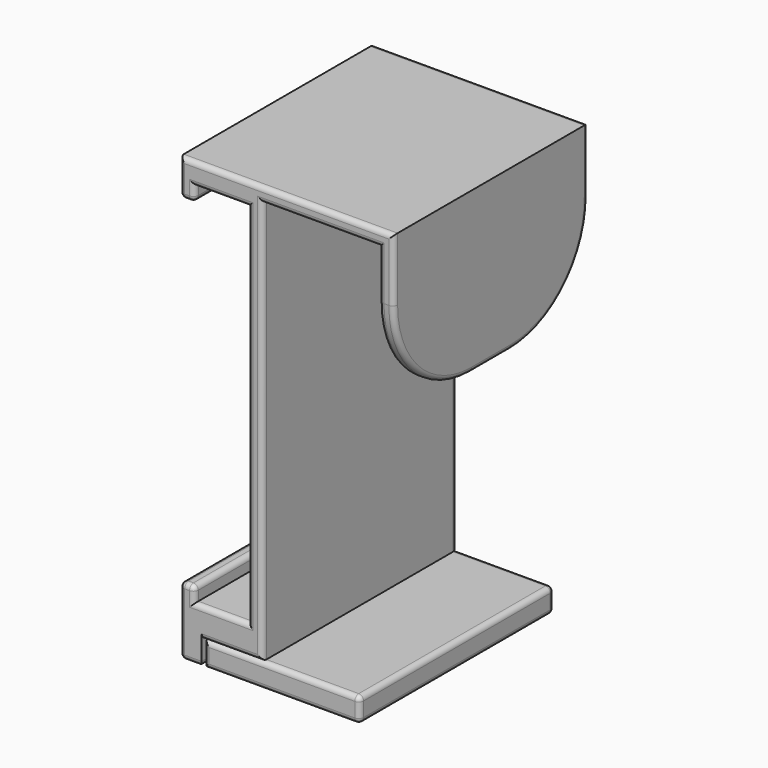
from build123d import *

# Parameters (mm, degrees)
PAD_DEPTH       = 50
SKETCH002_W     = 4.5
SKETCH002_H     = 50
PAD003_DEPTH    = 5
SKETCH005_R     = 1.3
POCKET003_DEPTH = 5
FILLET001_R     = 20
FILLET002_R     = 1
SKETCH001_W     = 17
SKETCH001_H     = 50
PAD001_DEPTH    = 5
PAD001_FACE4_W  = 50
PAD001_FACE4_H  = 5
PAD002_DEPTH    = 20
PAD002_FACE3_W  = 50
PAD002_FACE3_H  = 5
POCKET_DEPTH    = 5
SKETCH003_R     = 3
POCKET001_DEPTH = 3
SKETCH004_R     = 1.5
POCKET002_DEPTH = 5
FILLET_R        = 1


with BuildPart() as obj1:
    # Sketch → Pad (new body)
    with BuildSketch(Plane.XZ):
        Polygon((0, 0), (-17, 0), (-17, 9), (-14, 9), (-14, 6), (-3, 6), (-3, 81.5), (-14, 81.5), (-14, 78.5), (-17, 78.5), (-17, 86), (-3, 86), (27, 86), (27, 53), (24, 53), (24, 83), (0, 83), align=None)
    extrude(amount=PAD_DEPTH)

    # Sketch002 (on Face1 of Pad) → Pad003 (join)
    with BuildSketch(Plane(origin=(0, 0, 0), x_dir=(1, 0, 0), z_dir=(0, 0, -1))):
        with Locations((-14.75, 25)):
            Rectangle(SKETCH002_W, SKETCH002_H)
    extrude(amount=PAD003_DEPTH)

    # Sketch005 (on Face1 of Pad003) → Pocket003 (cut)
    with BuildSketch(Plane(origin=(0, 0, 0), x_dir=(1, 0, 0), z_dir=(0, 0, -1))):
        with Locations((-6, 40)):
            Circle(SKETCH005_R)
        with Locations((-6, 10)):
            Circle(SKETCH005_R)
    extrude(amount=-POCKET003_DEPTH, mode=Mode.SUBTRACT)

    # Fillet001
    fillet001_edges = [obj1.edges().sort_by_distance(p)[0] for p in [
        (25.5, -50, 53),
        (25.5, 0, 53),
    ]]
    fillet(fillet001_edges, radius=FILLET001_R)

    # Fillet002
    fillet002_edges = [obj1.edges().sort_by_distance(p)[0] for p in [
        (27, 0, 79.5),
        (25.5, 0, 73),
        (12, 0, 86),
        (24, 0, 78),
        (-10, 0, 86),
        (12, 0, 83),
        (-17, 0, 82.25),
        (0, 0, 41.5),
        (-15.5, 0, 78.5),
        (-6.25, 0, 0),
        (-14, 0, 80),
        (-14.75, 0, 0),
        (-8.5, 0, 81.5),
        (-17, 0, 4.5),
        (-3, 0, 43.75),
        (-15.5, 0, 9),
        (-8.5, 0, 6),
        (-14, 0, 7.5),
        (27, -50, 79.5),
        (25.5, -50, 73),
        (12, -50, 86),
        (24, -50, 78),
        (-10, -50, 86),
        (12, -50, 83),
        (-17, -50, 82.25),
        (0, -50, 41.5),
        (-15.5, -50, 78.5),
        (-6.25, -50, 0),
        (-14, -50, 80),
        (-14.75, -50, 0),
        (-8.5, -50, 81.5),
        (-17, -50, 4.5),
        (-3, -50, 43.75),
        (-15.5, -50, 9),
        (-8.5, -50, 6),
        (-14, -50, 7.5),
        (-14, -25, 78.5),
        (-17, -25, 78.5),
        (-17, -25, -5),
        (-14.75, 0, -5),
        (-12.5, -25, -5),
        (-14.75, -50, -5),
        (-17, -25, 9),
        (-14, -25, 9),
    ]]
    fillet(fillet002_edges, radius=FILLET002_R)


with BuildPart() as obj2:
    # Sketch001 → Pad001 (new body)
    with BuildSketch(Plane.XY):
        with Locations((-8.5, -25)):
            Rectangle(SKETCH001_W, SKETCH001_H)
    extrude(amount=-PAD001_DEPTH)

    # Pad001 Face4 → Pad002 (add)
    with BuildSketch(Plane(origin=(0, -25, -2.5), x_dir=(0, -1, 0), z_dir=(1, 0, 0))):
        Rectangle(PAD001_FACE4_W, PAD001_FACE4_H)
    extrude(amount=PAD002_DEPTH)

    # Pad002 Face3 → Pocket (cut)
    with BuildSketch(Plane(origin=(-17, -25, -2.5), x_dir=(0, 1, 0), z_dir=(-1, 0, 0))):
        Rectangle(PAD002_FACE3_W, PAD002_FACE3_H)
    extrude(amount=-POCKET_DEPTH, mode=Mode.SUBTRACT)

    # Sketch003 (on Face4 of Pocket) → Pocket001 (cut)
    with BuildSketch(Plane(origin=(0, 0, -5), x_dir=(1, 0, 0), z_dir=(0, 0, -1))):
        with Locations((-6, 40)):
            Circle(SKETCH003_R)
        with Locations((-6, 10)):
            Circle(SKETCH003_R)
    extrude(amount=-POCKET001_DEPTH, mode=Mode.SUBTRACT)

    # Sketch004 (on Face13 of Pocket001) → Pocket002 (cut)
    with BuildSketch(Plane(origin=(0, 0, -2), x_dir=(1, 0, 0), z_dir=(0, 0, -1))):
        with Locations((-6, 10)):
            Circle(SKETCH004_R)
        with Locations((-6, 40)):
            Circle(SKETCH004_R)
    extrude(amount=-POCKET002_DEPTH, mode=Mode.SUBTRACT)

    # Fillet
    fillet_edges = [obj2.edges().sort_by_distance(p)[0] for p in [
        (10, 0, 0),
        (10, 0, -5),
        (0, 0, -2.5),
        (20, 0, -2.5),
        (-6, 0, 0),
        (-12, 0, -2.5),
        (-6, 0, -5),
        (20, -50, -2.5),
        (20, -25, 0),
        (20, -25, -5),
        (10, -50, 0),
        (10, -50, -5),
        (0, -50, -2.5),
        (-6, -50, 0),
        (-6, -50, -5),
        (-12, -50, -2.5),
    ]]
    fillet(fillet_edges, radius=FILLET_R)


solid = Compound([obj1.part, obj2.part])
